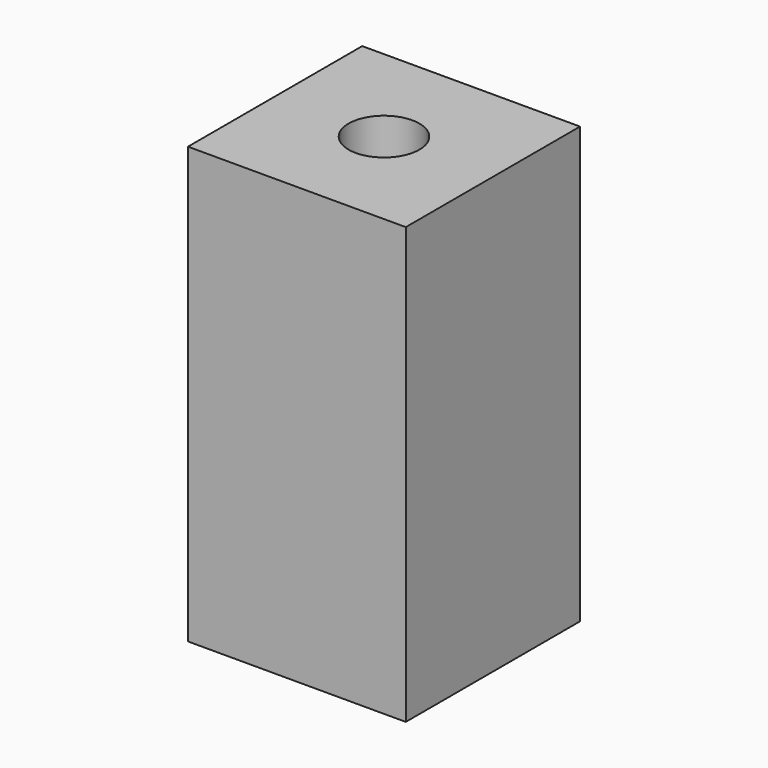
from build123d import *

# Parameters (mm, degrees)
SKETCH_W        = 40
SKETCH_H        = 40
PAD_DEPTH       = 80
SKETCH001_R     = 6.5
POCKET_DEPTH    = 30
SKETCH002_R     = 4.25
POCKET001_DEPTH = 55


with BuildPart() as part:
    # Sketch → Pad (new body)
    with BuildSketch(Plane.XY):
        Rectangle(SKETCH_W, SKETCH_H)
    extrude(amount=-PAD_DEPTH)

    # Sketch001 (on Face5 of Pad) → Pocket (cut)
    with BuildSketch(Plane.XY):
        Circle(SKETCH001_R)
    extrude(amount=-POCKET_DEPTH, mode=Mode.SUBTRACT)

    # Sketch002 (on Face4 of Pocket) → Pocket001 (cut)
    with BuildSketch(Plane.XY):
        Circle(SKETCH002_R)
    extrude(amount=-POCKET001_DEPTH, mode=Mode.SUBTRACT)


solid = part.part
